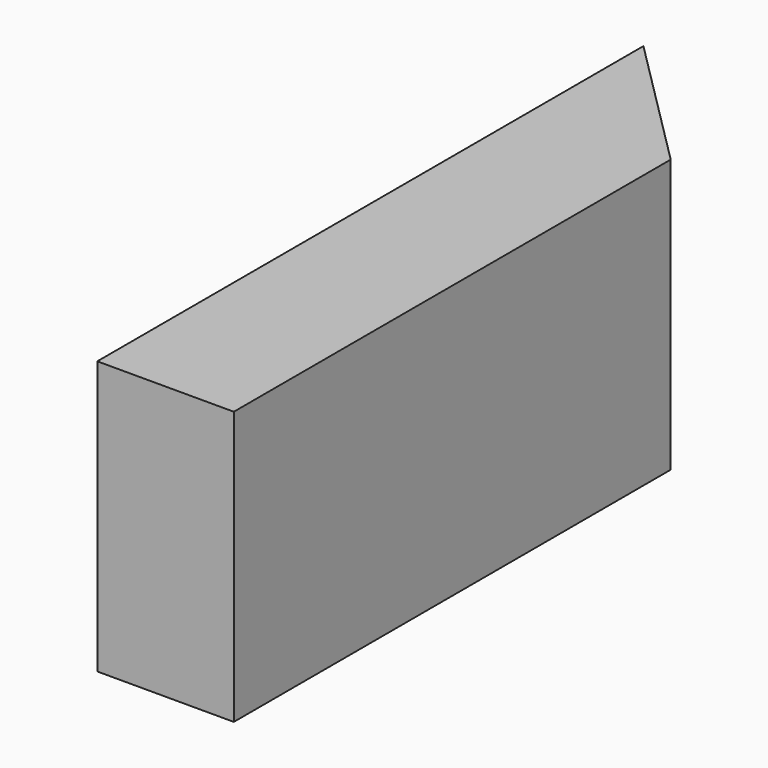
from build123d import *

# Parameters (mm, degrees)
SKETCH002_W  = 170.028106
SKETCH002_H  = 154.781021
PAD002_DEPTH = 30
SKETCH001_W  = 178.926751
SKETCH001_H  = 164.552085
PAD_DEPTH    = 25
PAD001_DEPTH = 10


with BuildPart() as pad002:
    # Sketch002 → Pad002 (new body)
    with BuildSketch(Plane.YZ):
        with Locations((0.462036, 0.231018)):
            Rectangle(SKETCH002_W, SKETCH002_H)
    extrude(amount=PAD002_DEPTH)


with BuildPart() as pad:
    # Sketch001 → Pad (new body)
    with BuildSketch(Plane.YZ):
        with Locations((1.16814, -0.450252)):
            Rectangle(SKETCH001_W, SKETCH001_H)
    extrude(amount=PAD_DEPTH)


with BuildPart() as common:
    # Sketch → Pad001 (new body)
    with BuildSketch(Plane.XY):
        Polygon((0, 25), (0, 75), (50, 25), align=None)
    extrude(amount=PAD001_DEPTH)

    # Cut: cut Pad
    add(pad.part, mode=Mode.SUBTRACT)

    # Common: intersect Pad002
    add(pad002.part, mode=Mode.INTERSECT)


solid = common.part
